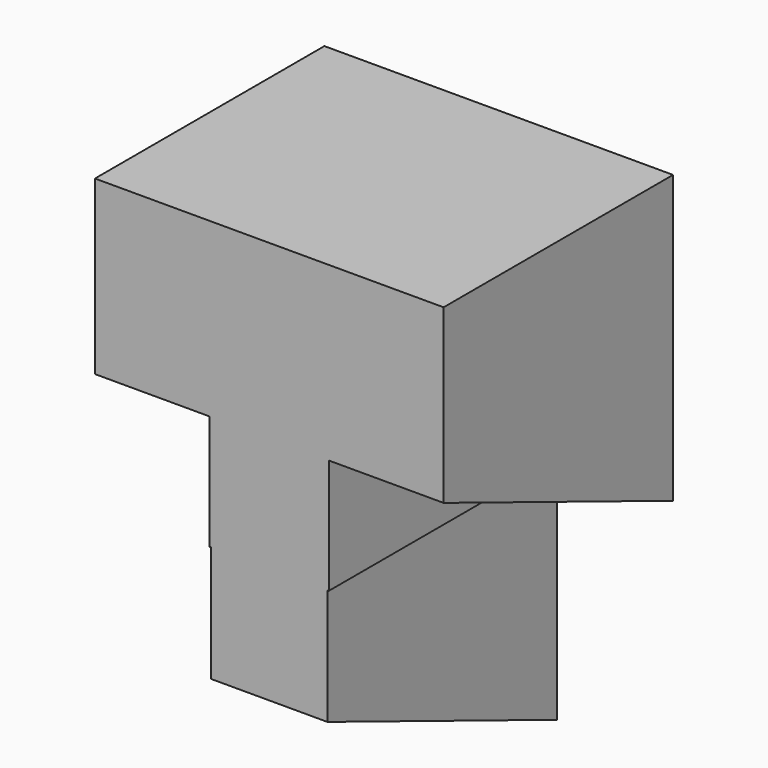
from build123d import *

# Parameters (mm, degrees)
F1_DEPTH = 31.75
F3_DEPTH = 25.732862
F5_DEPTH = 12.7
F7_DEPTH = 12.7


with BuildPart() as f1:
    # F0 (on Front) → F1 (new body)
    with BuildSketch(Plane.XZ):
        Polygon((-17.791169, 49.352903), (-56.388959, 49.352903), (-56.388959, 17.590139), (-43.523028, 17.590139), (-43.523028, -7.940691), (-30.657098, -7.940691), (-30.657098, 17.590139), (-17.791169, 17.590139), align=None)
    extrude(amount=F1_DEPTH)

    # F2 (on face) → F3 (cut, through all)
    with BuildSketch(Plane.YZ.offset(-30.657098)):
        Polygon((0, -7.940691), (-31.75, 4.759309), (-31.75, -7.940691), align=None)
    extrude(amount=-F3_DEPTH, mode=Mode.SUBTRACT)

    # F4 (on face) → F5 (cut)
    with BuildSketch(Plane(origin=(-56.388959, 0, 0), x_dir=(0, -1, 0), z_dir=(-1, 0, 0))):
        Polygon((31.75, 17.590139), (31.75, 30.290139), (0, 17.590139), align=None)
    extrude(amount=-F5_DEPTH, mode=Mode.SUBTRACT)

    # F6 (on face) → F7 (cut)
    with BuildSketch(Plane.YZ.offset(-17.791169)):
        Polygon((0, 17.590139), (-31.75, 30.290139), (-31.75, 17.590139), align=None)
    extrude(amount=-F7_DEPTH, mode=Mode.SUBTRACT)


solid = f1.part
